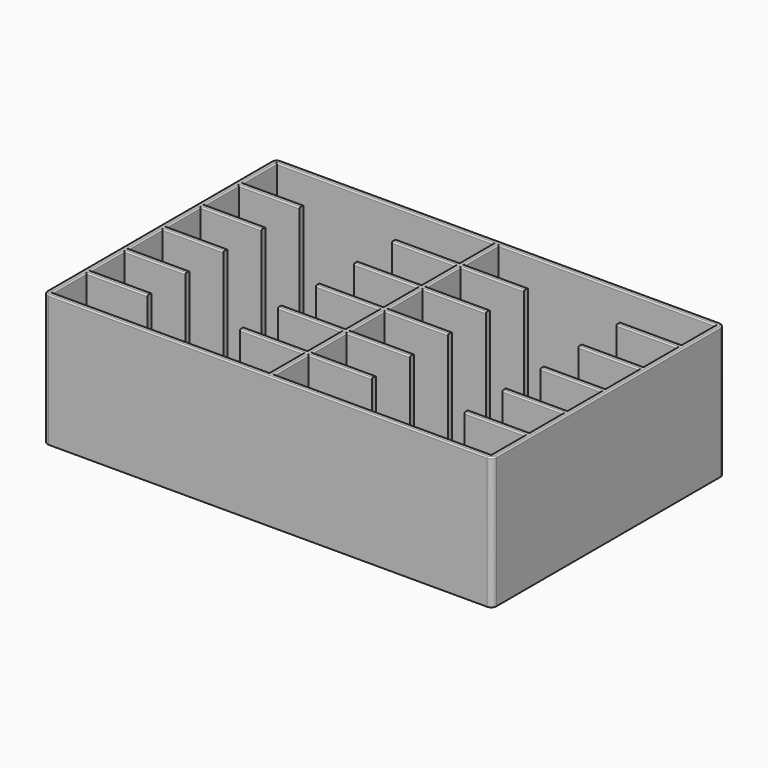
from build123d import *

# Parameters (mm, degrees)
SKETCH001_W     = 170
SKETCH001_H     = 110
PAD_DEPTH       = 50
SKETCH_W        = 82
SKETCH_H        = 16
POCKET_DEPTH    = 48
FILLET_R        = 2
FILLET001_R     = 0.5
SKETCH002_W     = 35
SKETCH002_H     = 90
POCKET001_DEPTH = 50.001


with BuildPart() as part:
    # Sketch001 → Pad (new body)
    with BuildSketch(Plane.XY):
        Rectangle(SKETCH001_W, SKETCH001_H)
    extrude(amount=PAD_DEPTH)

    # Sketch (on Face6 of Pad) → Pocket (cut)
    with BuildSketch(Plane.XY.offset(50)):
        with Locations((-42, 45)):
            Rectangle(SKETCH_W, SKETCH_H)
        with Locations((-42, 27)):
            Rectangle(SKETCH_W, SKETCH_H)
        with Locations((-42, 9)):
            Rectangle(SKETCH_W, SKETCH_H)
        with Locations((42, 45)):
            Rectangle(SKETCH_W, SKETCH_H)
        with Locations((42, 27)):
            Rectangle(SKETCH_W, SKETCH_H)
        with Locations((42, 9)):
            Rectangle(SKETCH_W, SKETCH_H)
        with Locations((-42, -9)):
            Rectangle(SKETCH_W, SKETCH_H)
        with Locations((-42, -27)):
            Rectangle(SKETCH_W, SKETCH_H)
        with Locations((-42, -45)):
            Rectangle(SKETCH_W, SKETCH_H)
        with Locations((42, -9)):
            Rectangle(SKETCH_W, SKETCH_H)
        with Locations((42, -27)):
            Rectangle(SKETCH_W, SKETCH_H)
        with Locations((42, -45)):
            Rectangle(SKETCH_W, SKETCH_H)
    extrude(amount=-POCKET_DEPTH, mode=Mode.SUBTRACT)

    # Fillet
    fillet_edges = [part.edges().sort_by_distance(p)[0] for p in [
        (85, 55, 25),
        (85, -55, 25),
        (-85, -55, 25),
        (-85, 55, 25),
    ]]
    fillet(fillet_edges, radius=FILLET_R)

    # Fillet001
    fillet001_edges = [part.edges().sort_by_distance(p)[0] for p in [
        (0, 55, 50),
        (84.414214, 54.414214, 50),
        (-84.414214, 54.414214, 50),
        (85, 0, 50),
        (-85, 0, 50),
        (84.414214, -54.414214, 50),
        (-84.414214, -54.414214, 50),
        (0, -55, 50),
        (-42, -37, 50),
        (-1, -45, 50),
        (-83, -45, 50),
        (-42, -53, 50),
        (-42, -19, 50),
        (-1, -27, 50),
        (-83, -27, 50),
        (-42, -35, 50),
        (-42, -1, 50),
        (-1, -9, 50),
        (-83, -9, 50),
        (-42, -17, 50),
        (1, -45, 50),
        (42, -53, 50),
        (42, -37, 50),
        (83, -45, 50),
        (1, -27, 50),
        (42, -35, 50),
        (42, -19, 50),
        (83, -27, 50),
        (1, -9, 50),
        (42, -17, 50),
        (42, -1, 50),
        (83, -9, 50),
        (-83, 9, 50),
        (-42, 1, 50),
        (-42, 17, 50),
        (-1, 9, 50),
        (-42, 35, 50),
        (-1, 27, 50),
        (-83, 27, 50),
        (-42, 19, 50),
        (-83, 45, 50),
        (-42, 37, 50),
        (-1, 45, 50),
        (-42, 53, 50),
        (1, 9, 50),
        (42, 1, 50),
        (42, 17, 50),
        (83, 9, 50),
        (1, 27, 50),
        (42, 19, 50),
        (42, 35, 50),
        (83, 27, 50),
        (1, 45, 50),
        (42, 37, 50),
        (42, 53, 50),
        (83, 45, 50),
    ]]
    fillet(fillet001_edges, radius=FILLET001_R)

    # Sketch002 (on Face4 of Fillet001) → Pocket001 (cut, through all)
    with BuildSketch(Plane(origin=(0, 0, 0), x_dir=(1, 0, 0), z_dir=(0, 0, -1))):
        with Locations((-42.5, 0)):
            Rectangle(SKETCH002_W, SKETCH002_H)
        with Locations((42.5, 0)):
            Rectangle(SKETCH002_W, SKETCH002_H)
    extrude(amount=-POCKET001_DEPTH, mode=Mode.SUBTRACT)


solid = part.part
